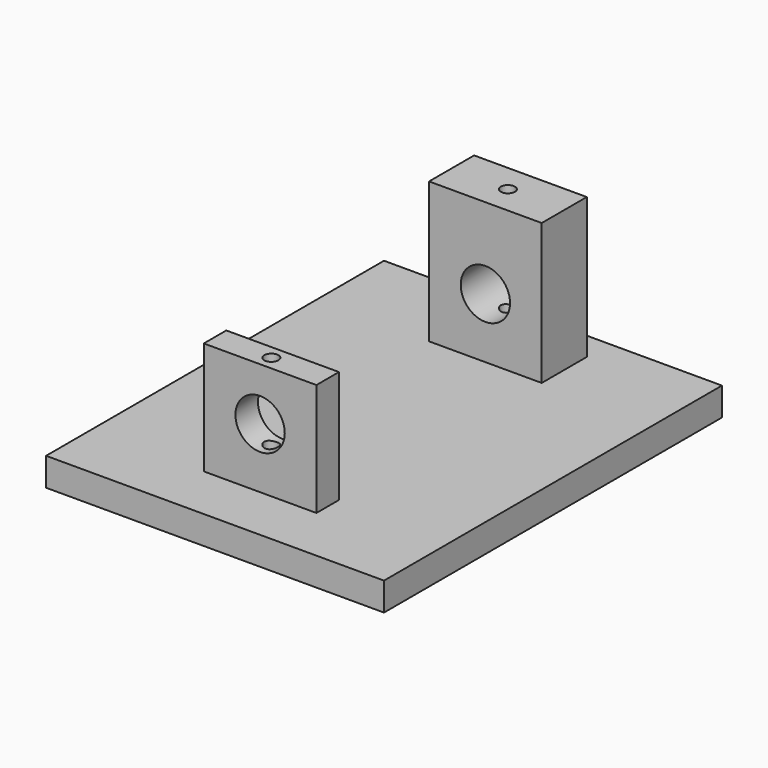
from build123d import *

# Parameters (mm, degrees)
F0_W     = 120
F0_H     = 150
F0_W_2   = 40
F0_H_2   = 10
F0_H_3   = 20
F0_R     = 2.5
F1_DEPTH = 10
F2_DEPTH = 50
F3_DEPTH = 25
F4_DEPTH = 25
F5_DEPTH = 40
F6_R     = 8.7598714534
F7_DEPTH = 80
F8_DEPTH = 68.3


with BuildPart() as f1:
    # F0 (on Top) → F1 (new body)
    with BuildSketch(Plane.XY):
        Rectangle(F0_W, F0_H)
        with Locations((0, -50)):
            Rectangle(F0_W_2, F0_H_2, mode=Mode.SUBTRACT)
        with Locations((0, 55)):
            Rectangle(F0_W_2, F0_H_3, mode=Mode.SUBTRACT)
        with Locations((0, 55)):
            Rectangle(F0_W_2, F0_H_3)
        with Locations((0, 55)):
            Circle(F0_R, mode=Mode.SUBTRACT)
        with Locations((0, -50)):
            Rectangle(F0_W_2, F0_H_2)
        with Locations((0, -50)):
            Circle(F0_R, mode=Mode.SUBTRACT)
        with Locations((0, 55)):
            Circle(F0_R)
        with Locations((0, -50)):
            Circle(F0_R)
    extrude(amount=-F1_DEPTH)

    # F0 (on Top) → F3 (cut)
    with BuildSketch(Plane.XY):
        with Locations((0, 55)):
            Circle(F0_R)
    extrude(amount=-F3_DEPTH, mode=Mode.SUBTRACT)

    # F0 (on Top) → F4 (cut)
    with BuildSketch(Plane.XY):
        with Locations((0, -50)):
            Circle(F0_R)
    extrude(amount=-F4_DEPTH, mode=Mode.SUBTRACT)

    # F6 (on Front) → F8 (cut)
    with BuildSketch(Plane.XZ):
        with Locations((0, 21.3346462697)):
            Circle(F6_R)
    extrude(amount=F8_DEPTH, mode=Mode.SUBTRACT)


with BuildPart() as f2:
    # F0 (on Top) → F2 (new body)
    with BuildSketch(Plane.XY):
        with Locations((0, 55)):
            Rectangle(F0_W_2, F0_H_3)
        with Locations((0, 55)):
            Circle(F0_R, mode=Mode.SUBTRACT)
    extrude(amount=F2_DEPTH)


with BuildPart() as f5:
    # F0 (on Top) → F5 (new body)
    with BuildSketch(Plane.XY):
        with Locations((0, -50)):
            Rectangle(F0_W_2, F0_H_2)
        with Locations((0, -50)):
            Circle(F0_R, mode=Mode.SUBTRACT)
    extrude(amount=F5_DEPTH)


with BuildPart() as f7_tool:
    # F6 (on Front) → F7 (new body, symmetric)
    with BuildSketch(Plane.XZ):
        with Locations((0, 21.3346462697)):
            Circle(F6_R)
    extrude(amount=F7_DEPTH, both=True)


with BuildPart() as f2_1:
    add(f2.part)

    # F7: cut by f7_tool
    add(f7_tool.part, mode=Mode.SUBTRACT)


with BuildPart() as f5_1:
    add(f5.part)

    # F7: cut by f7_tool
    add(f7_tool.part, mode=Mode.SUBTRACT)


solid = Compound([f1.part, f2_1.part, f5_1.part])
